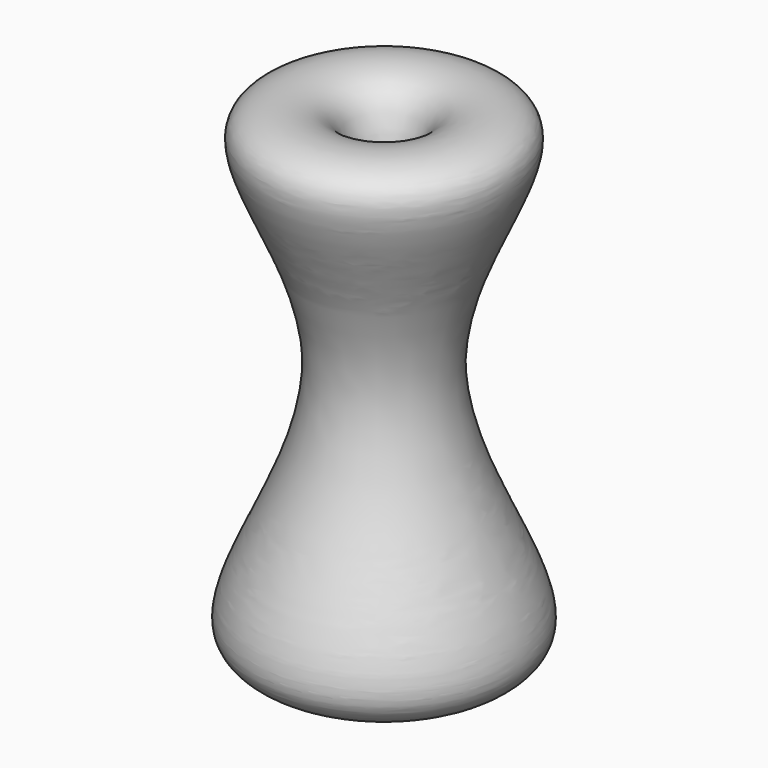
from build123d import *


with BuildPart() as f1:
    # F0 (on Front) → F1 (revolve)
    with BuildSketch(Plane.XZ):
        with BuildLine():
            add(Edge.make_bspline(
                [(0, -48.4503507614), (13.0635252822, -47.2129367234), (43.4039904676, -44.3390021054), (-3.0373623196, 10.3546181735), (38.7552863941, 57.938688103), (4.7642697269, 60.1632500777), (6.4673978631, 40.1096049554), (1.694955417, 41.7116677538), (0, 42.2806479037)],
                knots=[0, 0, 0, 0, 0.1861328852, 0.43229972, 0.6621753711, 0.7990165892, 0.9286197948, 1, 1, 1, 1], degree=3))
            Line((0, 42.2806479037), (0, -48.4503507614))
        make_face()
    revolve(axis=Axis((0, 0, 3.4477803856), (0, 0, -1)))


solid = f1.part
